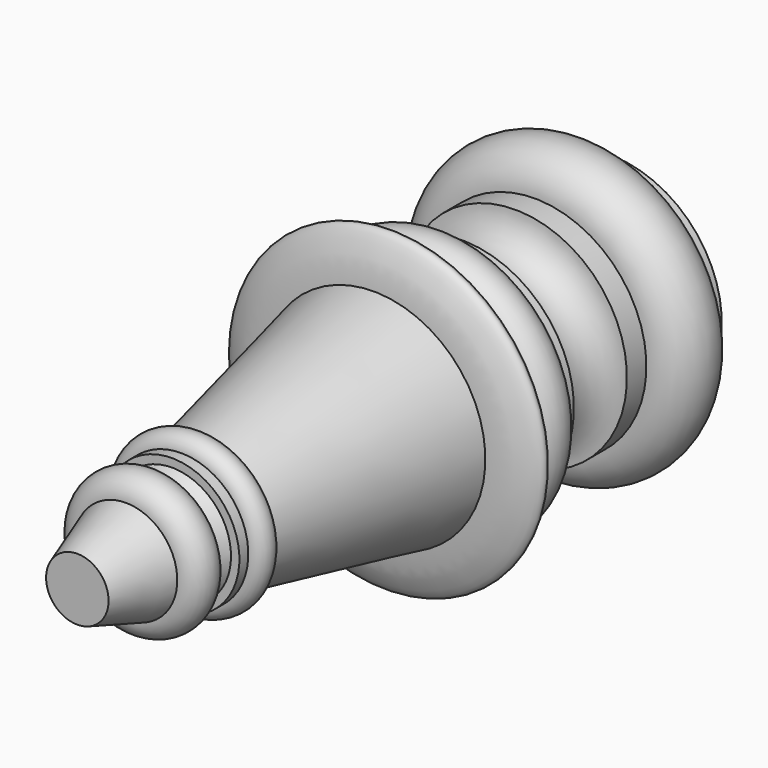
from build123d import *


with BuildPart() as f1:
    # F0 (on Top) → F1 (revolve)
    with BuildSketch(Plane.XY):
        with BuildLine():
            Line((0, 45.4373398854), (-7.0870225318, 45.4373398854))
            Line((-7.0870225318, 45.4373398854), (-7.0870225318, 44.0813787282))
            ThreePointArc((-7.0870225318, 44.0813787282), (-9.4018229283, 41.7665783316), (-7.0870225318, 39.451777935))
            Line((-7.0870225318, 39.451777935), (-7.0870225318, 37.9085801542))
            ThreePointArc((-7.0870225318, 37.9085801542), (-4.9826581962, 35.8042158186), (-7.0870225318, 33.6998514831))
            Line((-7.0870225318, 33.6998514831), (-7.0870225318, 32.5775258243))
            ThreePointArc((-7.0870225318, 32.5775258243), (-8.6302231066, 31.0343252495), (-7.0870225318, 29.4911246747))
            Line((-7.0870225318, 29.4911246747), (-7.0870225318, 29.0251076221))
            add(Edge.make_bspline(
                [(-7.0870225318, 29.0251076221), (-7.9367011786, 28.9956536144), (-8.9281425658, 28.866943828), (-10.5421832914, 27.7959639203), (-8.8597758689, 26.9028460294), (-7.992730476, 26.7264358699), (-7.0870225318, 26.6704056412)],
                knots=[0, 0, 0, 0, 0.2804287013, 0.5021812223, 0.7211308594, 1, 1, 1, 1], degree=3))
            Line((-7.0870225318, 26.6704056412), (-4.2700003833, 13.1473056972))
            ThreePointArc((-4.2700003833, 13.1473056972), (-5.1000163123, 12.2616379522), (-4.2700003833, 11.3759702072))
            Line((-4.2700003833, 11.3759702072), (-4.2700003833, 10.6692379341))
            Line((-4.2700003833, 10.6692379341), (-3.7376990076, 10.6692379341))
            Line((-3.7376990076, 10.6692379341), (-3.2665443141, 9.6326973289))
            ThreePointArc((-3.2665443141, 9.6326973289), (-4.5857781079, 8.3134635352), (-3.2665443141, 6.9942297414))
            Line((-3.2665443141, 6.9942297414), (-1.9843692426, 3.143603215))
            Line((-1.9843692426, 3.143603215), (0, 3.143603215))
            Line((0, 3.143603215), (0, 45.4373398854))
        make_face()
    revolve(axis=Axis((0, 24.2904715502, 0), (0, -1, 0)))


solid = f1.part
